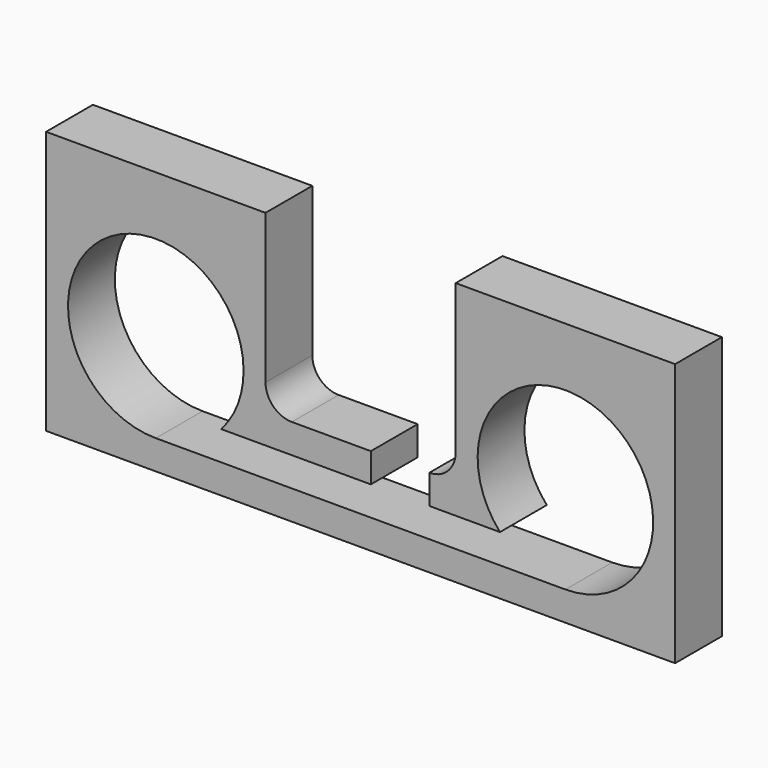
from build123d import *

# Parameters (mm, degrees)
F0_W     = 273.05
F0_H     = 114.3
F1_DEPTH = 25.4
F2_R     = 38.1
F3_DEPTH = 25.4
F5_DEPTH = 25.4
F7_DEPTH = 25.4


with BuildPart() as f1:
    # F0 (on Front) → F1 (new body)
    with BuildSketch(Plane.XZ):
        with Locations((136.525, 57.15)):
            Rectangle(F0_W, F0_H)
    extrude(amount=F1_DEPTH)

    # F2 (on face) → F3 (cut)
    with BuildSketch(Plane.XZ.offset(25.4)):
        with Locations((47.625, 50.8)):
            Circle(F2_R)
        with Locations((225.425, 50.8)):
            Circle(F2_R)
    extrude(amount=-F3_DEPTH, mode=Mode.SUBTRACT)

    # F4 (on face) → F5 (cut)
    with BuildSketch(Plane.XZ.offset(25.4)):
        with BuildLine():
            Line((177.8, 114.3), (95.25, 114.3))
            Line((95.25, 114.3), (95.25, 49.53))
            ThreePointArc((95.25, 49.53), (98.597769, 41.447769), (106.68, 38.1))
            Line((106.68, 38.1), (166.37, 38.1))
            ThreePointArc((166.37, 38.1), (174.452231, 41.447769), (177.8, 49.53))
            Line((177.8, 49.53), (177.8, 114.3))
        make_face()
    extrude(amount=-F5_DEPTH, mode=Mode.SUBTRACT)

    # F6 (on face) → F7 (cut)
    with BuildSketch(Plane.XZ.offset(25.4)):
        Polygon((166.37, 25.4), (166.37, 38.1), (140.97, 38.1), (140.97, 25.4), (76.023063, 25.4), (47.625, 12.7), (166.37, 12.7), align=None)
        Polygon((197.026937, 25.4), (166.37, 25.4), (166.37, 12.7), (225.425, 12.7), align=None)
    extrude(amount=-F7_DEPTH, mode=Mode.SUBTRACT)


solid = f1.part
